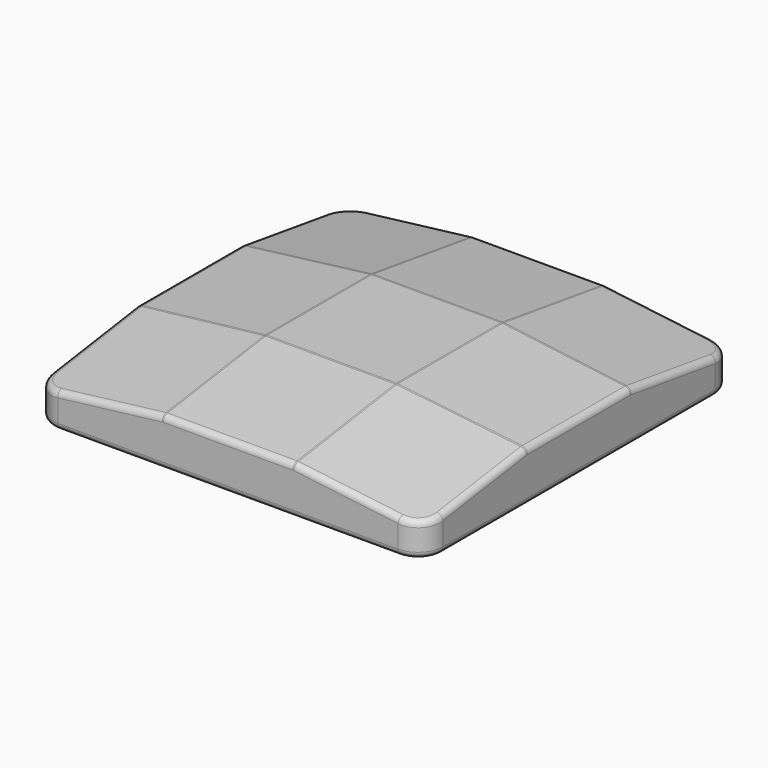
from build123d import *

# Parameters (mm, degrees)
F0_W       = 25
F0_H       = 25
F1_DEPTH   = 3
F3_DEPTH   = 25
F4_SIZE2   = 8.3
F4_SIZE    = 1
F4_2_SIZE2 = 8.3
F4_2_SIZE  = 1
F5_R       = 1.6
F6_R       = 0.8
F7_R       = 0.4


with BuildPart() as f1:
    # F0 (on Top) → F1 (new body)
    with BuildSketch(Plane.XY):
        Rectangle(F0_W, F0_H)
    extrude(amount=F1_DEPTH)

    # F2 (on face) → F3 (join, through all)
    with BuildSketch(Plane.YZ.offset(12.5)):
        Polygon((0, 4.2), (0, 3), (12.5, 3), (4.25, 4.2), align=None)
        Polygon((-4.25, 4.2), (-12.5, 3), (0, 3), (0, 4.2), align=None)
    extrude(amount=-F3_DEPTH)

    # F4
    f4_edges = [f1.edges().sort_by_distance(p)[0] for p in [
        (12.5, 8.375, 3.6),
        (12.5, 0, 4.2),
        (12.5, -8.375, 3.6),
    ]]
    f4_side = f1.faces().sort_by_distance((12.5, 0, 1.923028))[0]
    chamfer(f4_edges, length=F4_SIZE, length2=F4_SIZE2, reference=f4_side)

    # F4#2
    f4_2_edges = [f1.edges().sort_by_distance(p)[0] for p in [
        (-12.5, 0, 4.2),
        (-12.5, -8.375, 3.6),
        (-12.5, 8.375, 3.6),
    ]]
    f4_2_side = f1.faces().sort_by_distance((-12.5, 0, 1.923028))[0]
    chamfer(f4_2_edges, length=F4_2_SIZE, length2=F4_2_SIZE2, reference=f4_2_side)

    # F5
    f5_edges = [f1.edges().sort_by_distance(p)[0] for p in [
        (-12.5, -12.5, 0.994738),
        (12.5, -12.5, 0.994738),
        (12.5, 12.5, 0.994738),
        (-12.5, 12.5, 0.994738),
    ]]
    fillet(f5_edges, radius=F5_R)

    # F6
    f6_edges = [f1.edges().sort_by_distance(p)[0] for p in [
        (-4.2, 8.375, 3.6),
        (4.2, 8.375, 3.6),
        (8.35, 4.213827, 3.7),
        (0, 4.25, 4.2),
        (-8.35, 4.213827, 3.7),
        (-4.2, 0, 4.2),
        (4.2, 0, 4.2),
        (8.35, -4.213827, 3.7),
        (4.2, -8.375, 3.6),
        (0, -4.25, 4.2),
        (-4.2, -8.375, 3.6),
        (-8.35, -4.213827, 3.7),
    ]]
    fillet(f6_edges, radius=F6_R)

    # F7
    f7_edges = [f1.edges().sort_by_distance(p)[0] for p in [
        (-12.5, 7.567258, 2.706967),
        (-12.5, 0, 0),
    ]]
    fillet(f7_edges, radius=F7_R)


solid = f1.part
